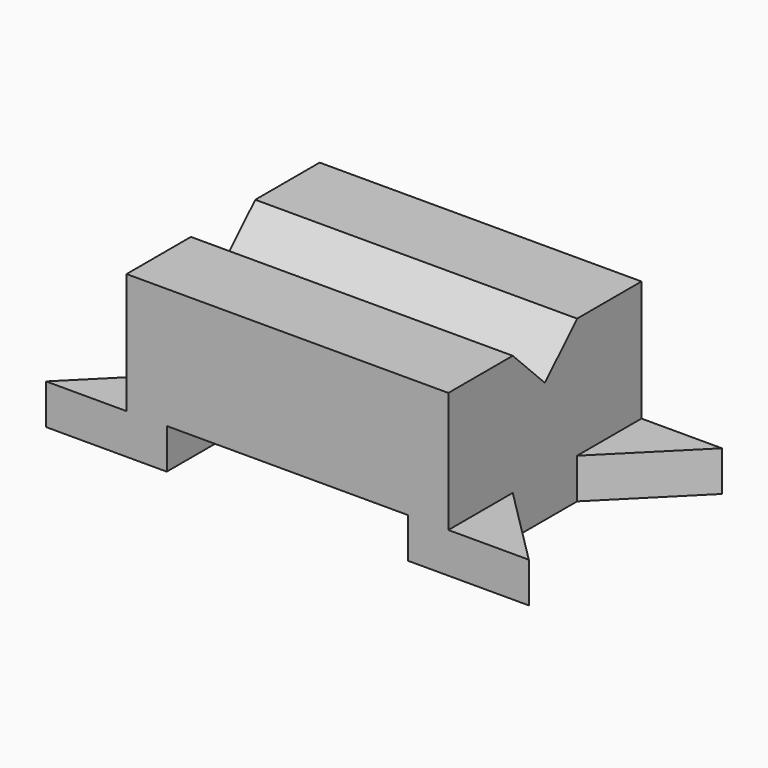
from build123d import *

# Parameters (mm, degrees)
F1_DEPTH = 76.2
F3_DEPTH = 101.6
F5_DEPTH = 25.4
F7_DEPTH = 25.4


with BuildPart() as f1:
    # F0 (on Front) → F1 (new body)
    with BuildSketch(Plane.XZ):
        Polygon((-75.980723, 12.7), (-75.980723, 0), (-37.880723, 0), (-37.880723, 12.7), (-50.580723, 12.7), align=None)
        Polygon((-50.580723, 12.7), (-37.880723, 12.7), (38.319277, 12.7), (51.019277, 12.7), (51.019277, 50.8), (-50.580723, 50.8), align=None)
        Polygon((51.019277, 12.7), (38.319277, 12.7), (38.319277, 0), (76.419277, 0), (76.419277, 12.7), align=None)
    extrude(amount=F1_DEPTH)

    # F2 (on face) → F3 (cut)
    with BuildSketch(Plane.YZ.offset(51.019277)):
        Polygon((-38.1, 50.8), (-50.8, 50.8), (-38.1, 38.1), align=None)
        Polygon((-38.1, 50.8), (-38.1, 38.1), (-25.4, 50.8), align=None)
    extrude(amount=-F3_DEPTH, mode=Mode.SUBTRACT)

    # F4 (on face) → F5 (cut)
    with BuildSketch(Plane.XY.offset(12.7)):
        Polygon((51.019277, -25.4), (51.019277, -50.8), (76.419277, -76.2), (76.419277, 0), align=None)
    extrude(amount=-F5_DEPTH, mode=Mode.SUBTRACT)

    # F6 (on face) → F7 (cut)
    with BuildSketch(Plane.XY.offset(12.7)):
        Polygon((-50.580723, -50.8), (-50.580723, -25.4), (-75.980723, 0), (-75.980723, -76.2), align=None)
    extrude(amount=-F7_DEPTH, mode=Mode.SUBTRACT)


solid = f1.part
